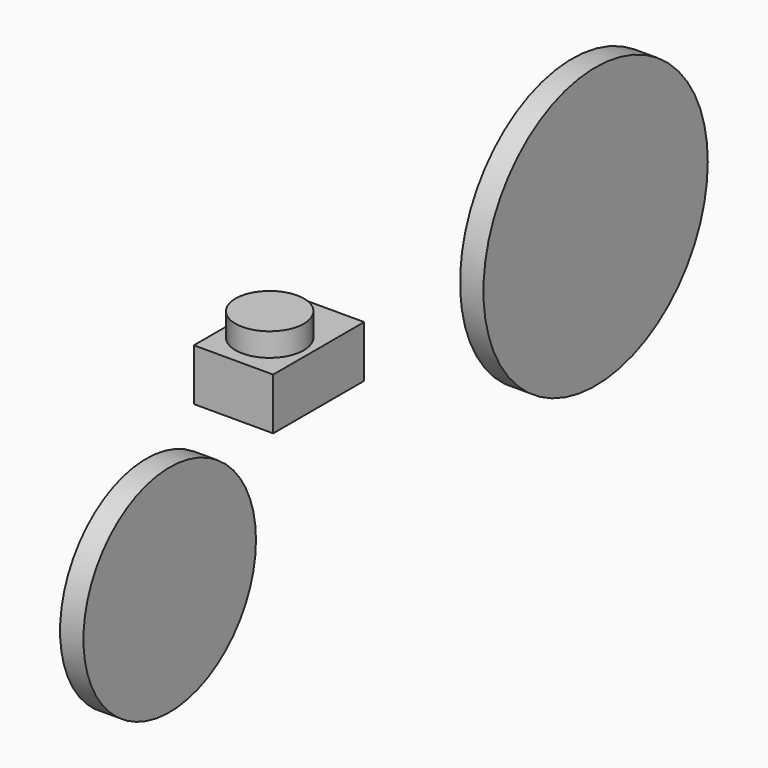
from build123d import *

# Parameters (mm, degrees)
F0_W     = 84.849983
F0_H     = 55.391043
F1_DEPTH = 121.687233
F2_R     = 36.545391
F3_DEPTH = 102.397002
F4_DEPTH = 25
F5_R     = 115.359124
F5_R_2   = 150
F6_DEPTH = 25


with BuildPart() as f1:
    # F0 (on Front) → F1 (new body)
    with BuildSketch(Plane.XZ):
        with Locations((1.555905, -12.758598)):
            Rectangle(F0_W, F0_H)
    extrude(amount=F1_DEPTH)

    # F2 (on face) → F3 (cut)
    with BuildSketch(Plane.XY.offset(14.936924)):
        with Locations((0, -71.384817)):
            Circle(F2_R)
    extrude(amount=-F3_DEPTH, mode=Mode.SUBTRACT)


with BuildPart() as f4:
    # F2 (on face) → F4 (new body)
    with BuildSketch(Plane.XY.offset(14.936924)):
        with Locations((0, -71.384817)):
            Circle(F2_R)
    extrude(amount=F4_DEPTH)


with BuildPart() as f6:
    # F5 (on face) → F6 (new body)
    with BuildSketch(Plane.YZ.offset(43.980896)):
        with Locations((-291.323417, -110.57464)):
            Circle(F5_R)
        with Locations((278.188881, 0)):
            Circle(F5_R_2)
    extrude(amount=F6_DEPTH)


solid = Compound([f1.part, f4.part, f6.part])
